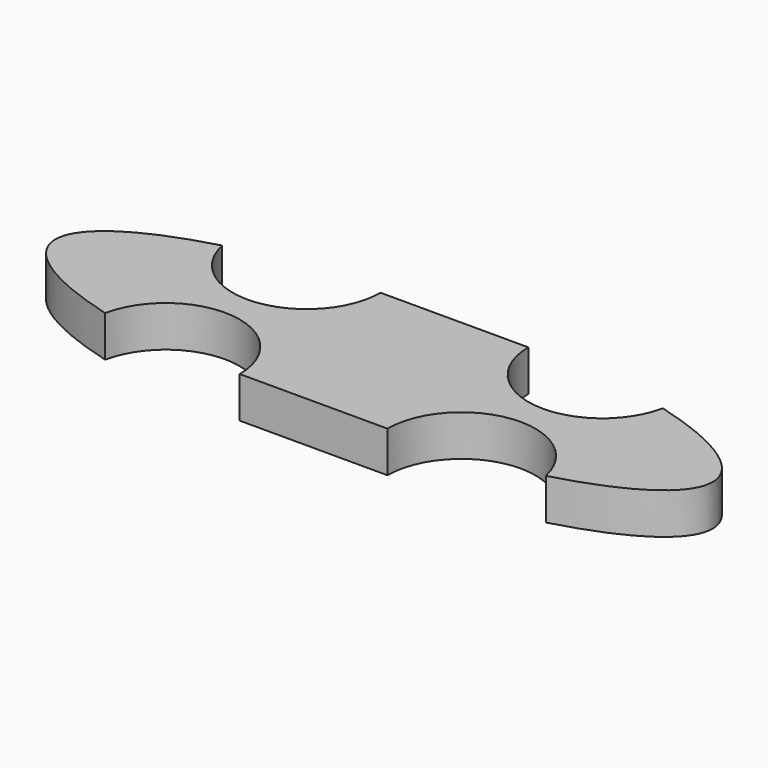
from build123d import *

# Parameters (mm, degrees)
F1_DEPTH = 25


with BuildPart() as f1:
    # F0 (on Top) → F1 (new body)
    with BuildSketch(Plane.XY):
        with BuildLine():
            add(Edge.make_bspline(
                [(-134.0782683535, 44.5204628904), (-199.999999721, 26.6527141895), (-200, 1.885e-07)],
                knots=[2.305532398, 2.305532398, 2.305532398, 3.1415926504, 3.1415926504, 3.1415926504], degree=2, weights=[1, 0.9138904048, 1]))
            add(Edge.make_bspline(
                [(-200, 1.885e-07), (-200.000000279, -26.6526940275), (-134.0783510273, -44.5204404821)],
                knots=[3.1415926504, 3.1415926504, 3.1415926504, 3.9776523521, 3.9776523521, 3.9776523521], degree=2, weights=[1, 0.9138905166, 1]))
            ThreePointArc((-134.0783510273, -44.5204404821), (-118.4364363932, -18.7048054461), (-90, -8.5812887157))
            Line((-90, -8.5812887157), (-90, 8.5817132985))
            ThreePointArc((-90, 8.5817132985), (-118.4362772848, 18.7051003009), (-134.0782683535, 44.5204628904))
        make_face()
        with BuildLine():
            Line((90, -8.5812887157), (90, 8.5817132985))
            ThreePointArc((90, 8.5817132985), (58.1801948466, 21.7619081451), (45, 53.5817132985))
            Line((45, 53.5817132985), (-45, 53.5817132985))
            ThreePointArc((-45, 53.5817132985), (-58.1801948466, 21.7619081451), (-90, 8.5817132985))
            Line((-90, 8.5817132985), (-90, -8.5812887157))
            ThreePointArc((-90, -8.5812887157), (-58.1801948466, -21.7614835623), (-45, -53.5812887157))
            ThreePointArc((-45, -53.5812887157), (-45.0000000005, -53.5815010071), (-45.000000002, -53.5817132985))
            Line((-45.000000002, -53.5817132985), (45.000000002, -53.5817132985))
            ThreePointArc((45.000000002, -53.5817132985), (58.1800447343, -21.7616336753), (90, -8.5812887157))
        make_face()
        with BuildLine():
            add(Edge.make_bspline(
                [(134.0783510273, -44.5204404821), (200, -26.6526941032), (200, 0)],
                knots=[5.4471256087, 5.4471256087, 5.4471256087, 6.2831853072, 6.2831853072, 6.2831853072], degree=2, weights=[1, 0.9138905173, 1]))
            add(Edge.make_bspline(
                [(200, 0), (200, 26.6527141139), (134.0782683535, 44.5204628904)],
                knots=[0, 0, 0, 0.8360602556, 0.8360602556, 0.8360602556], degree=2, weights=[1, 0.9138904042, 1]))
            ThreePointArc((134.0782683535, 44.5204628904), (118.4362772848, 18.7051003009), (90, 8.5817132985))
            Line((90, 8.5817132985), (90, -8.5812887157))
            ThreePointArc((90, -8.5812887157), (118.4364363932, -18.7048054461), (134.0783510273, -44.5204404821))
        make_face()
    extrude(amount=F1_DEPTH)


solid = f1.part
